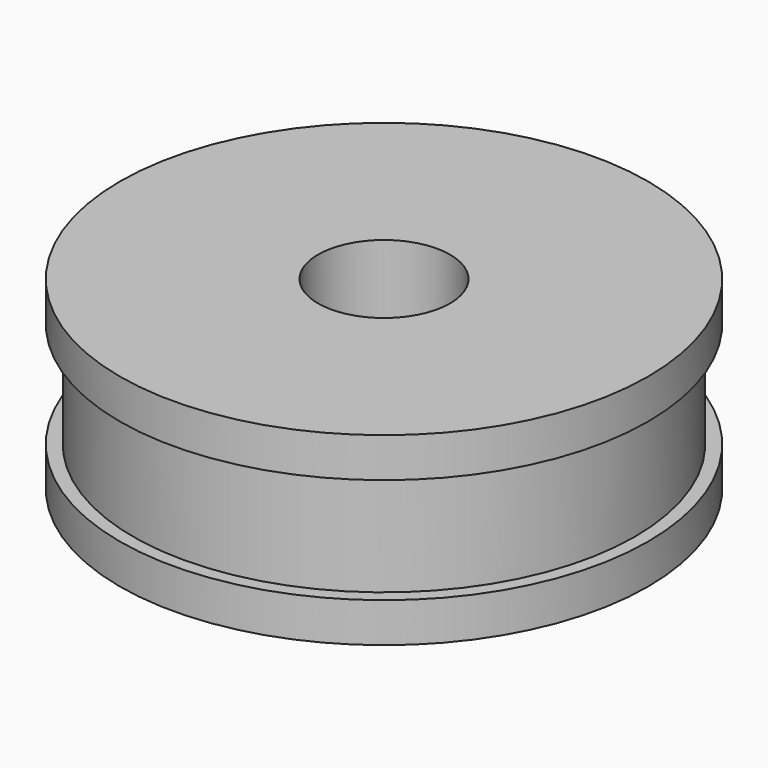
from build123d import *

# Parameters (mm, degrees)
SKETCH_R     = 10
PAD_DEPTH    = 1.5
SKETCH001_R  = 9.5
PAD001_DEPTH = 4
SKETCH002_R  = 10
PAD002_DEPTH = 1.5
SKETCH003_R  = 2.5
POCKET_DEPTH = 7.001


with BuildPart() as part:
    # Sketch → Pad (new body)
    with BuildSketch(Plane.XY):
        Circle(SKETCH_R)
    extrude(amount=PAD_DEPTH)

    # Sketch001 (on Face3 of Pad) → Pad001 (join)
    with BuildSketch(Plane.XY.offset(1.5)):
        Circle(SKETCH001_R)
    extrude(amount=PAD001_DEPTH)

    # Sketch002 (on Face5 of Pad001) → Pad002 (join)
    with BuildSketch(Plane.XY.offset(5.5)):
        Circle(SKETCH002_R)
    extrude(amount=PAD002_DEPTH)

    # Sketch003 (on Face3 of Pad002) → Pocket (cut, through all)
    with BuildSketch(Plane.XY.offset(7)):
        Circle(SKETCH003_R)
    extrude(amount=-POCKET_DEPTH, mode=Mode.SUBTRACT)


solid = part.part
